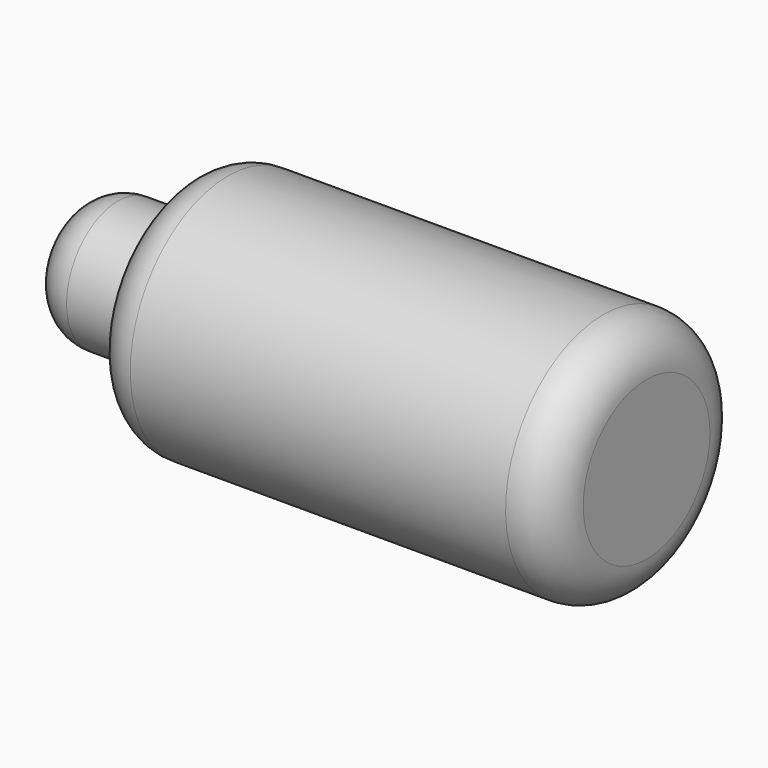
from build123d import *

# Parameters (mm, degrees)
F2_R = 5.08


with BuildPart() as f1:
    # F0 (on Front) → F1 (revolve)
    with BuildSketch(Plane.XZ):
        Polygon((0, 7.581339), (0, 0), (67.31, 0), (67.31, 14.4018), (12.954, 14.4018), (12.954, 7.581339), align=None)
    revolve(axis=Axis((33.655, 0, 0), (-1, 0, 0)))

    # F2
    f2_edges = [f1.edges().sort_by_distance(p)[0] for p in [
        (67.31, 0, -14.4018),
        (12.954, 0, -14.4018),
        (40.132, 0, 14.4018),
        (0, 0, -7.581339),
    ]]
    fillet(f2_edges, radius=F2_R)


solid = f1.part
